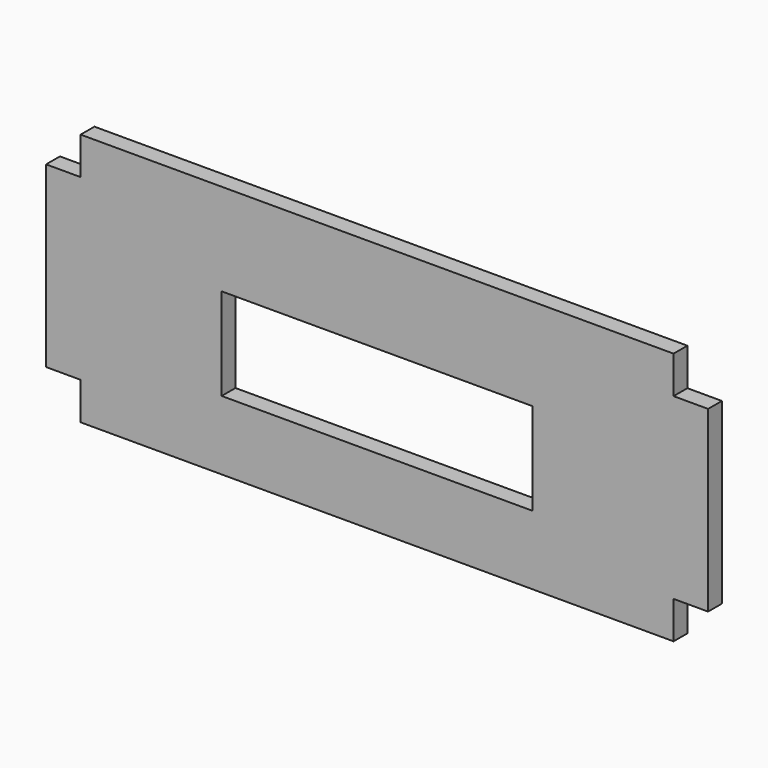
from build123d import *

# Parameters (mm, degrees)
F0_W     = 54
F0_H     = 16
F1_DEPTH = 3


with BuildPart() as f1:
    # F0 (on Front) → F1 (new body)
    with BuildSketch(Plane.XZ):
        Polygon((-51.5, -22), (51.5, -22), (51.5, -15.5), (57.5, -15.5), (57.5, 15.5), (51.5, 15.5), (51.5, 22), (-51.5, 22), (-51.5, 15.5), (-57.5, 15.5), (-57.5, -15.5), (-51.5, -15.5), align=None)
        with Locations((0, -2)):
            Rectangle(F0_W, F0_H, mode=Mode.SUBTRACT)
    extrude(amount=F1_DEPTH)


solid = f1.part
